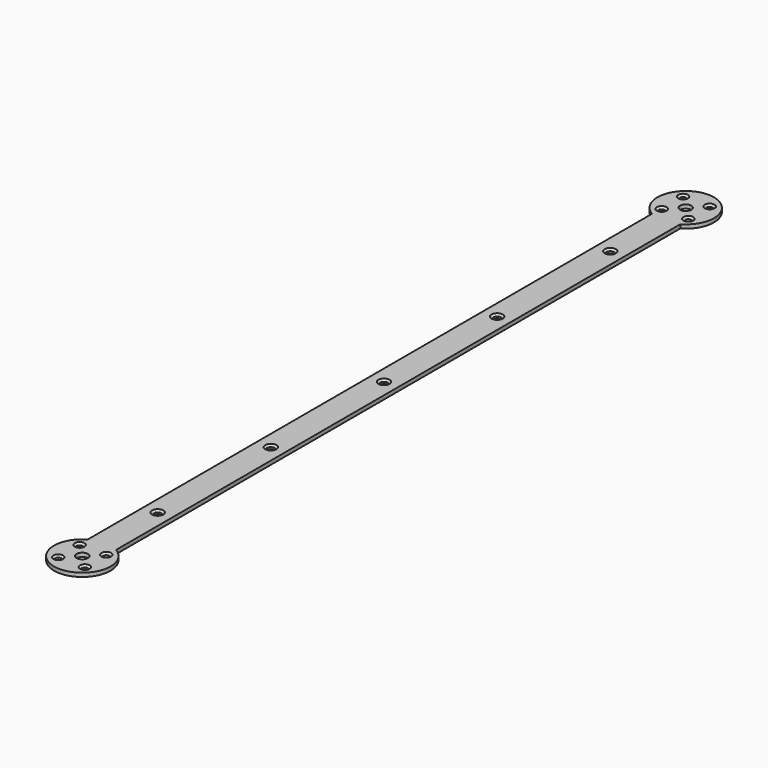
from build123d import *

# Parameters (mm, degrees)
F0_R     = 1.6
F0_R_2   = 3
F0_R_3   = 2
F1_DEPTH = 2
F2_SIZE  = 1
F3_SIZE  = 1
F4_SIZE  = 1
F5_SIZE  = 1


with BuildPart() as f1:
    # F0 (on Top) → F1 (new body)
    with BuildSketch(Plane.XY):
        with BuildLine():
            ThreePointArc((0, 187.000727), (-7.5, 214.991108), (-15, 187.000727))
            Line((-15, 187.000727), (-15, -186.999273))
            ThreePointArc((-15, -186.999273), (-7.5, -214.989654), (0, -186.999273))
            Line((0, -186.999273), (0, 187.000727))
        make_face()
        with Locations((-14.572135, -207.061108)):
            Circle(F0_R, mode=Mode.SUBTRACT)
        with Locations((-14.57, -192.918972)):
            Circle(F0_R, mode=Mode.SUBTRACT)
        with Locations((-7.5, -199.989654)):
            Circle(F0_R_2, mode=Mode.SUBTRACT)
        with Locations((-0.43, -207.063243)):
            Circle(F0_R, mode=Mode.SUBTRACT)
        with Locations((-0.427865, -192.921108)):
            Circle(F0_R, mode=Mode.SUBTRACT)
        with Locations((-7.5, -150.000727)):
            Circle(F0_R_3, mode=Mode.SUBTRACT)
        with Locations((-7.5, -75.000727)):
            Circle(F0_R_3, mode=Mode.SUBTRACT)
        with Locations((-14.57, 192.918972)):
            Circle(F0_R, mode=Mode.SUBTRACT)
        with Locations((-14.572135, 207.061108)):
            Circle(F0_R, mode=Mode.SUBTRACT)
        with Locations((-7.5, 0.000727)):
            Circle(F0_R_3, mode=Mode.SUBTRACT)
        with Locations((-7.5, 75.000727)):
            Circle(F0_R_3, mode=Mode.SUBTRACT)
        with Locations((-7.5, 150.000727)):
            Circle(F0_R_3, mode=Mode.SUBTRACT)
        with Locations((-7.5, 199.991108)):
            Circle(F0_R_2, mode=Mode.SUBTRACT)
        with Locations((-0.427865, 192.921108)):
            Circle(F0_R, mode=Mode.SUBTRACT)
        with Locations((-0.43, 207.063243)):
            Circle(F0_R, mode=Mode.SUBTRACT)
    extrude(amount=F1_DEPTH)

    # F2
    f2_edges = [f1.edges().sort_by_distance(p)[0] for p in [
        (-16.17, 192.918972, 2),
    ]]
    chamfer(f2_edges, length=F2_SIZE)

    # F3
    f3_edges = [f1.edges().sort_by_distance(p)[0] for p in [
        (-16.172135, 207.061108, 2),
        (-2.03, 207.063243, 2),
        (-2.027865, 192.921108, 2),
    ]]
    chamfer(f3_edges, length=F3_SIZE)

    # F4
    f4_edges = [f1.edges().sort_by_distance(p)[0] for p in [
        (-16.17, -192.918972, 2),
        (-16.172135, -207.061108, 2),
        (-2.03, -207.063243, 2),
        (-2.027865, -192.921108, 2),
    ]]
    chamfer(f4_edges, length=F4_SIZE)

    # F5
    f5_edges = [f1.edges().sort_by_distance(p)[0] for p in [
        (-9.5, 150.000727, 2),
        (-9.5, 75.000727, 2),
        (-9.5, 0.000727, 2),
        (-9.5, -75.000727, 2),
        (-9.5, -150.000727, 2),
    ]]
    chamfer(f5_edges, length=F5_SIZE)


solid = f1.part
